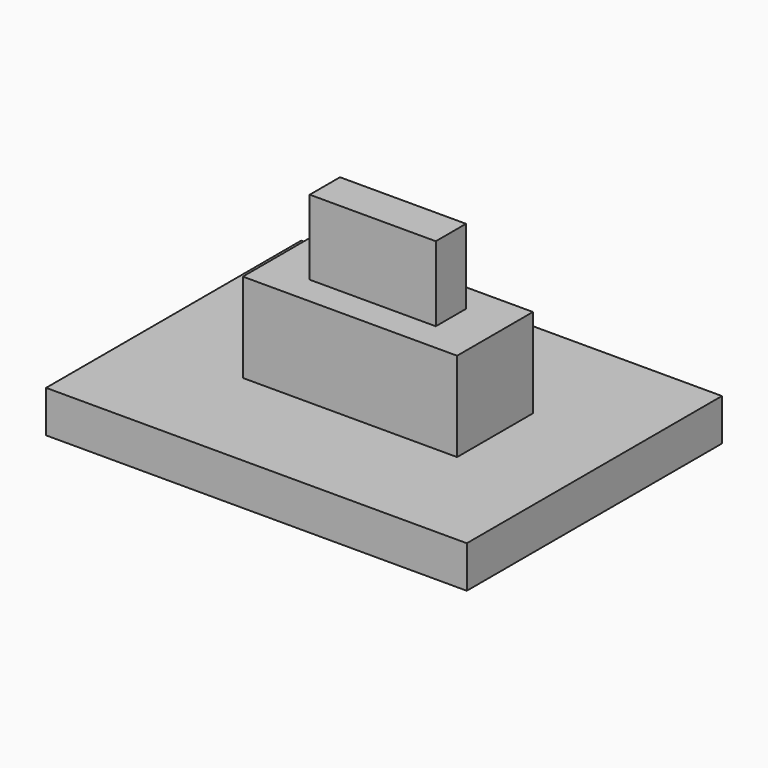
from build123d import *

# Parameters (mm, degrees)
SKETCH013_W      = 8.5
SKETCH013_H      = 3.76
EXTRUDE013_DEPTH = 3.54
SKETCH014_W      = 5
SKETCH014_H      = 1.5
EXTRUDE014_DEPTH = 2.97
SKETCH012_W      = 16.69
SKETCH012_H      = 12.65
EXTRUDE012_DEPTH = 1.66


with BuildPart() as extrude_switch_house:
    # Sketch013 → Extrude013 (new body)
    with BuildSketch(Plane.XY):
        with Locations((4.25, 1.88)):
            Rectangle(SKETCH013_W, SKETCH013_H)
    extrude(amount=EXTRUDE013_DEPTH)


with BuildPart() as extrude_switch:
    # Sketch014 → Extrude014 (new body)
    with BuildSketch(Plane.XY):
        with Locations((4.25, 1.88)):
            Rectangle(SKETCH014_W, SKETCH014_H)
    extrude(amount=EXTRUDE014_DEPTH)


with BuildPart() as extrude_switch_1:
    # Extrude014 placement: moved
    add(extrude_switch.part.moved(Location((0, 0, 3.54))))


with BuildPart() as fusion_switch:
    # Sketch012 → Extrude012 (new body)
    with BuildSketch(Plane(origin=(4, 2, 0), x_dir=(1, 0, 0), z_dir=(0, 0, 1))):
        Rectangle(SKETCH012_W, SKETCH012_H)
    extrude(amount=-EXTRUDE012_DEPTH)

    # Fusion004: union Extrude_Switch_house, Extrude_Switch_
    add(extrude_switch_house.part)
    add(extrude_switch_1.part)


with BuildPart() as fusion_switch_1:
    # Fusion004 placement: moved
    add(fusion_switch.part.moved(Location((-150, 0, 0))))


solid = fusion_switch_1.part
